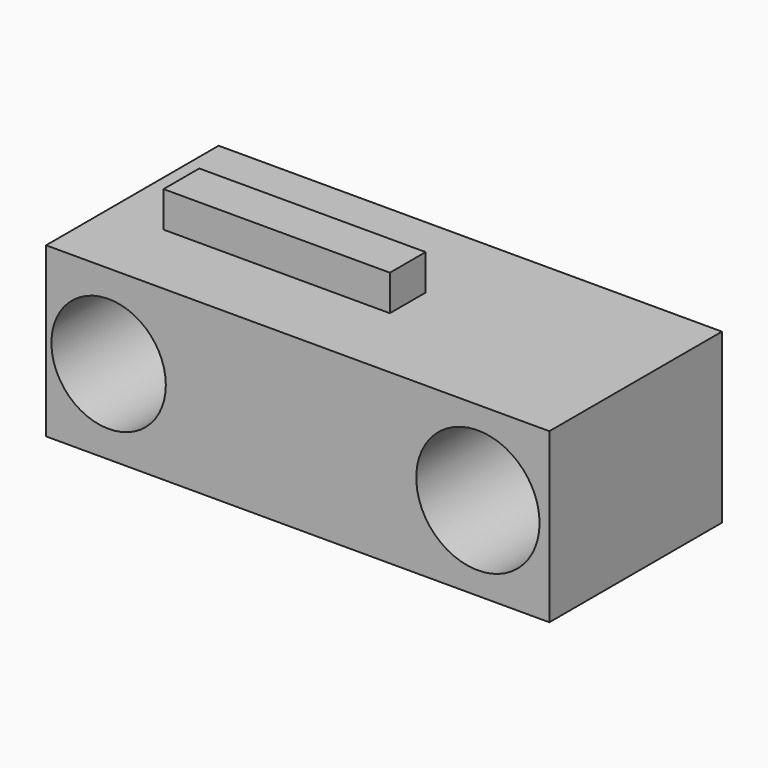
from build123d import *

# Parameters (mm, degrees)
F0_W     = 106.679998
F0_H     = 35.665206
F0_R     = 12.1268
F0_R_2   = 13.067826
F1_DEPTH = 45.72
F2_W     = 47.974439
F2_H     = 9.468642
F3_DEPTH = 25.4


with BuildPart() as f1:
    # F0 (on Front) → F1 (new body)
    with BuildSketch(Plane.XZ):
        Rectangle(F0_W, F0_H)
        with Locations((-40.083904, 0)):
            Circle(F0_R, mode=Mode.SUBTRACT)
        with Locations((38.190179, 0)):
            Circle(F0_R_2, mode=Mode.SUBTRACT)
    extrude(amount=F1_DEPTH)

    # F2 (on Top) → F3 (join)
    with BuildSketch(Plane.XY):
        with Locations((-17.674792, -24.460651)):
            Rectangle(F2_W, F2_H)
    extrude(amount=F3_DEPTH)


solid = f1.part
